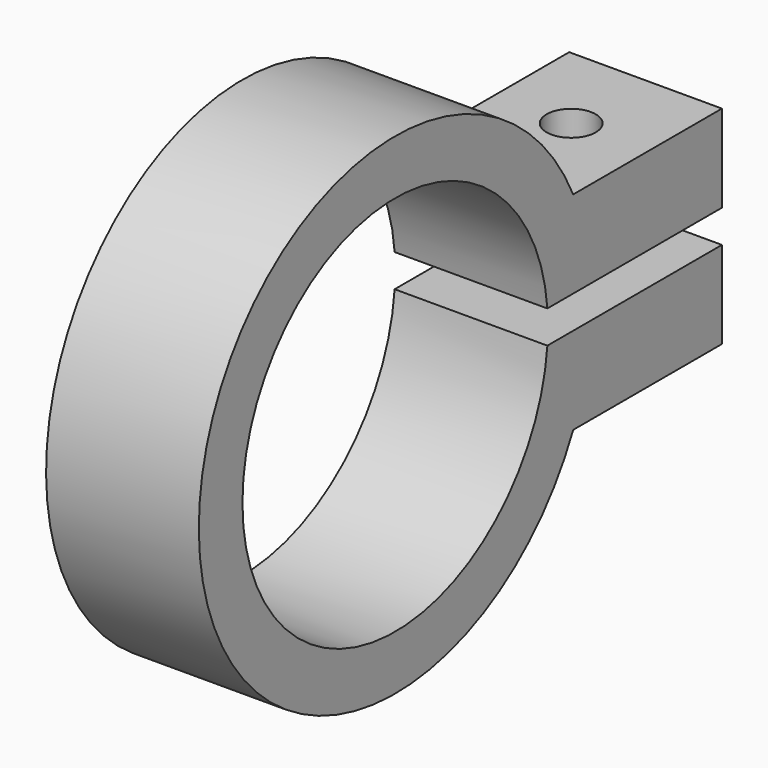
from build123d import *

# Parameters (mm, degrees)
F1_DEPTH = 14
F3_D     = 4.5


with BuildPart() as f1:
    # F0 (on Right) → F1 (new body)
    with BuildSketch(Plane.YZ):
        with BuildLine():
            ThreePointArc((17.4355957742, -1.5), (-17.5, 0), (17.4355957742, 1.5))
            Line((17.4355957742, 1.5), (37.4355957742, 1.5))
            Line((37.4355957742, 1.5), (37.4355957742, 9.5))
            Line((37.4355957742, 9.5), (20.3960780544, 9.5))
            ThreePointArc((20.3960780544, 9.5), (-14.6168366424, 17.1054987232), (-12.5644042258, -18.6650943327))
            ThreePointArc((-12.5644042258, -18.6650943327), (6.027729031, -21.6775571209), (20.3960780544, -9.5))
            Line((20.3960780544, -9.5), (37.4355957742, -9.5))
            Line((37.4355957742, -9.5), (37.4355957742, -1.5))
            Line((37.4355957742, -1.5), (17.4355957742, -1.5))
        make_face()
    extrude(amount=F1_DEPTH)

    # F3 (through all)
    with Locations(Plane.XY.offset(9.5)):
        with Locations((7, 28.9158369143)):
            Hole(F3_D / 2)


solid = f1.part
